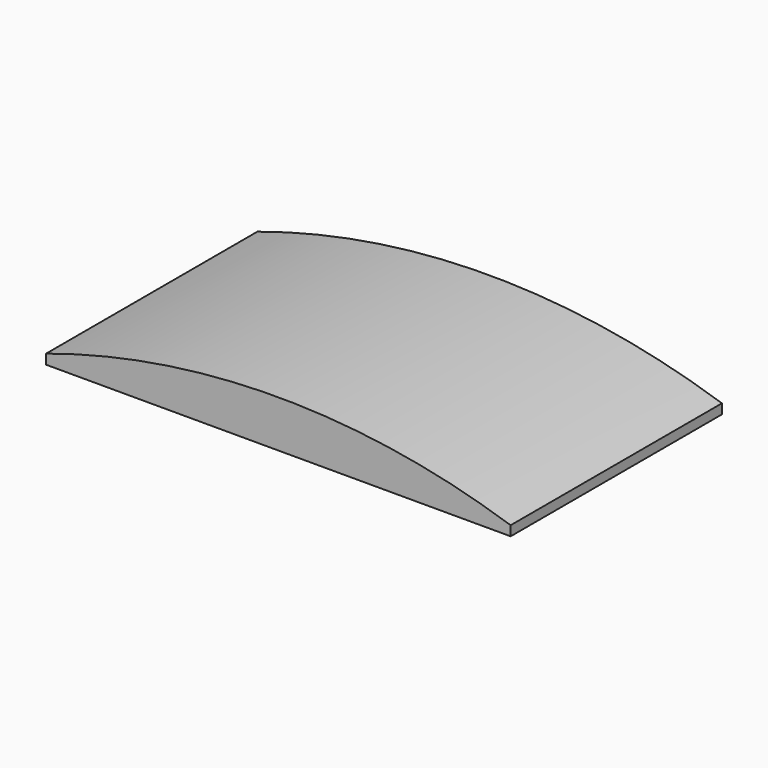
from build123d import *

# Parameters (mm, degrees)
F0_W     = 95
F0_H     = 54
F1_DEPTH = 2
F3_DEPTH = 54


with BuildPart() as f1:
    # F0 (on Top) → F1 (new body)
    with BuildSketch(Plane.XY):
        Rectangle(F0_W, F0_H)
    extrude(amount=F1_DEPTH)

    # F2 (on face) → F3 (join)
    with BuildSketch(Plane.XZ.offset(27)):
        with BuildLine():
            Line((-47.5, 2), (47.5, 2))
            ThreePointArc((47.5, 2), (0, 9.591471), (-47.5, 2))
        make_face()
    extrude(amount=-F3_DEPTH)


solid = f1.part
